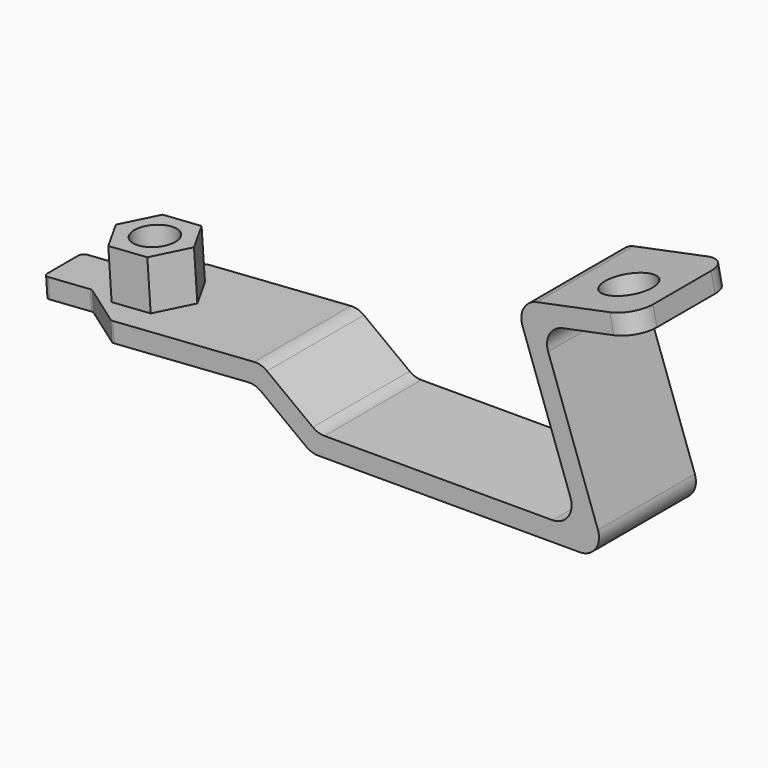
from build123d import *

# Parameters (mm, degrees)
F1_DEPTH  = 25
F2_R      = 4
F3_R      = 3.9581459444
F4_R      = 5
F6_DEPTH  = 4
F7_R      = 1
F9_DEPTH  = 10
F11_D     = 8.5
F11_DEPTH = 20
F11_TIP   = 2.5536576309
F13_D     = 10.3
F13_DEPTH = 4
F13_TIP   = 3.094432188
F15_D     = 10
F15_DEPTH = 4
F15_TIP   = 3.0043030951


with BuildPart() as f1:
    # F0 (on Front) → F1 (new body)
    with BuildSketch(Plane.XZ):
        Polygon((-11.592581531, 8.7356367638), (0, 0), (61, 0), (47.3139187714, 38.6483011348), (67.3029387003, 42.7151132025), (66.5054669627, 46.634812021), (42.0073493471, 41.6506136606), (55.3401309115, 4), (1.338381278, 4), (-10.3797117652, 12.8302164722), (-61.3117864463, 9.2686988641), (-61.0327605513, 5.278442663), align=None)
    extrude(amount=F1_DEPTH)

    # F2
    f2_edges = [f1.edges().sort_by_distance(p)[0] for p in [
        (42.007349, -12.5, 41.650614),
        (1.338381, -12.5, 4),
        (-10.379712, -12.5, 12.830216),
        (-11.592582, -12.5, 8.735637),
        (0, -12.5, 0),
        (47.313919, -12.5, 38.648301),
    ]]
    fillet(f2_edges, radius=F2_R)

    # F3
    f3_edges = [f1.edges().sort_by_distance(p)[0] for p in [
        (55.340131, -12.5, 4),
        (61, -12.5, 0),
    ]]
    fillet(f3_edges, radius=F3_R)

    # F4
    f4_edges = [f1.edges().sort_by_distance(p)[0] for p in [
        (66.904203, -25, 44.674963),
        (66.904203, 0, 44.674963),
    ]]
    fillet(f4_edges, radius=F4_R)

    # F5 (on face) → F6 (cut)
    with BuildSketch(Plane(origin=(-0.9433178269, 0, 13.4900734165), x_dir=(0.9975640503, 0, 0.0697564737), z_dir=(-0.0697564737, 0, 0.9975640503))):
        Polygon((-60.5158822671, 0), (-60.5158822671, -7.5), (-50.5158822671, -7.5), (-40.5158822671, 0), align=None)
        Polygon((-50.5158822671, -17.5), (-60.5158822671, -17.5), (-60.5158822671, -25), (-40.5158822671, -25), align=None)
    extrude(amount=-F6_DEPTH, mode=Mode.SUBTRACT)

    # F7
    f7_edges = [f1.edges().sort_by_distance(p)[0] for p in [
        (-41.220992, -25, 8.6687),
        (-51.196633, -17.5, 7.971136),
        (-61.172273, -17.5, 7.273571),
        (-61.172273, -7.5, 7.273571),
        (-41.220992, 0, 8.6687),
        (-51.196633, -7.5, 7.971136),
    ]]
    fillet(f7_edges, radius=F7_R)

    # F8 (on face) → F9 (join)
    with BuildSketch(Plane(origin=(-0.9433178269, 0, 13.4900734165), x_dir=(0.9975640503, 0, 0.0697564737), z_dir=(-0.0697564737, 0, 0.9975640503))):
        Polygon((-36.7410970494, -19.5), (-32.6996451651, -12.5), (-36.7410970494, -5.5), (-44.8240008181, -5.5), (-48.8654527024, -12.5), (-44.8240008181, -19.5), align=None)
    extrude(amount=F9_DEPTH)

    # F11
    with Locations(Plane(origin=(-1.6408825643, 0, 23.4657139191), x_dir=(0.9975640503, 0, 0.0697564737), z_dir=(-0.0697564737, 0, 0.9975640503))):
        with Locations((-40.7825489337, -12.5)):
            Hole(F11_D / 2, depth=F11_DEPTH)
            with Locations((0, 0, -(F11_DEPTH + F11_TIP / 2))):  # 118° drill point
                Cone(0, F11_D / 2, F11_TIP, mode=Mode.SUBTRACT)

    # F13
    with Locations(Plane(origin=(-0.6642919319, 0, 9.4998172155), x_dir=(0.9975640503, 0, 0.0697564737), z_dir=(0.0697564737, 0, -0.9975640503))):
        with Locations((-40.7825489337, 12.5)):
            Hole(F13_D / 2, depth=F13_DEPTH)
            with Locations((0, 0, -(F13_DEPTH + F13_TIP / 2))):  # 118° drill point
                Cone(0, F13_D / 2, F13_TIP, mode=Mode.SUBTRACT)

    # F15
    with Locations(Plane(origin=(-6.4674054427, 0, 31.7883133346), x_dir=(0.9799247046, 0, 0.1993679344), z_dir=(-0.1993679344, 0, 0.9799247046))):
        with Locations((64.4678362136, -14)):
            Hole(F15_D / 2, depth=F15_DEPTH)
            with Locations((0, 0, -(F15_DEPTH + F15_TIP / 2))):  # 118° drill point
                Cone(0, F15_D / 2, F15_TIP, mode=Mode.SUBTRACT)


solid = f1.part
